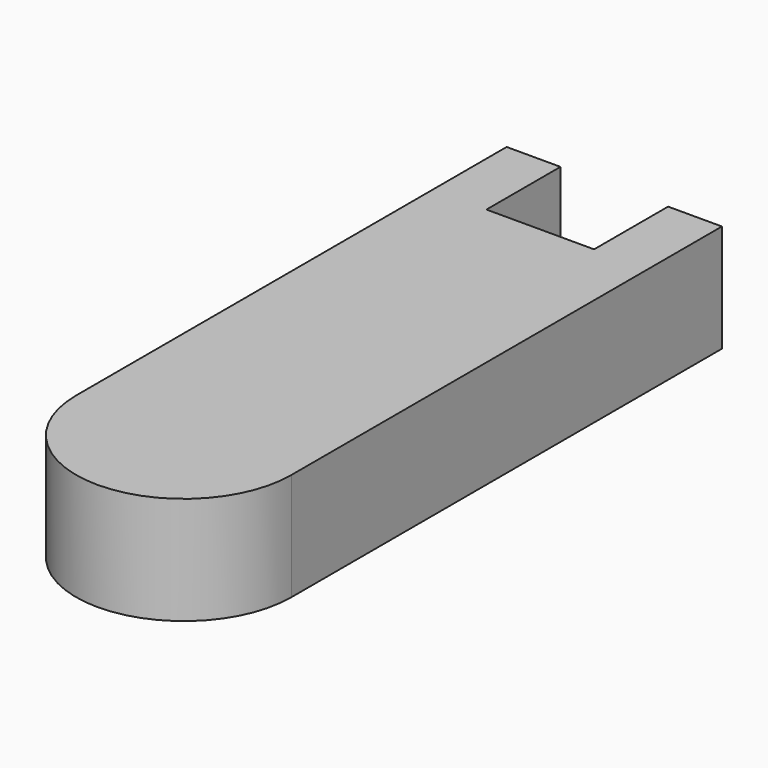
from build123d import *

# Parameters (mm, degrees)
F1_DEPTH = 12.7


with BuildPart() as f1:
    # F0 (on Top) → F1 (new body)
    with BuildSketch(Plane.XY):
        Polygon((-4.355291, 33.010619), (-10.705291, 33.010619), (-10.705291, -30.489381), (14.694709, -30.489381), (14.694709, 33.010619), (8.344709, 33.010619), (8.344709, 22.093077), (-4.355291, 22.093077), align=None)
        with BuildLine():
            Line((14.694709, -30.489381), (-10.705291, -30.489381))
            ThreePointArc((-10.705291, -30.489381), (1.994709, -43.189381), (14.694709, -30.489381))
        make_face()
    extrude(amount=F1_DEPTH)


solid = f1.part
